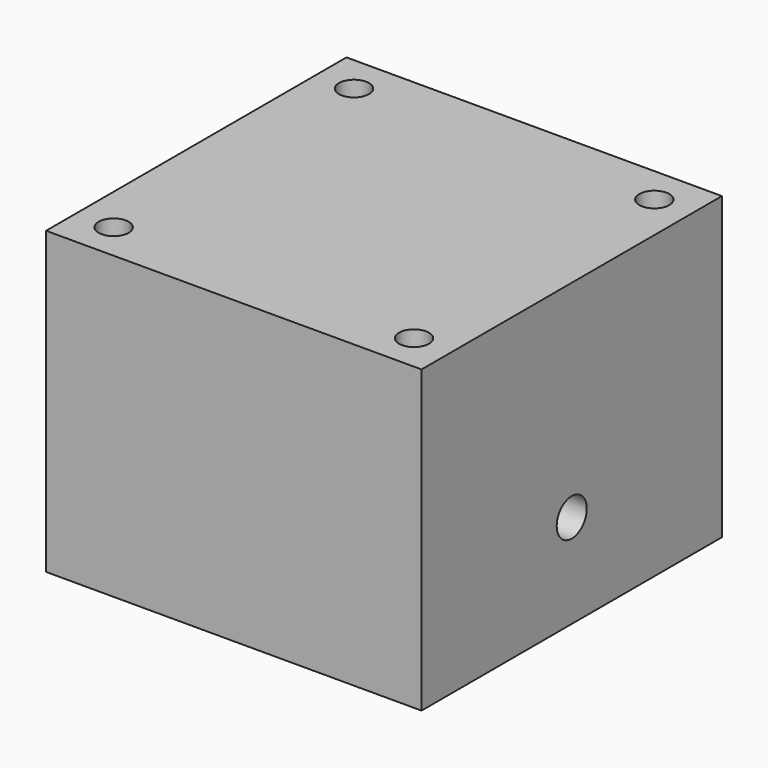
from build123d import *

# Parameters (mm, degrees)
F0_W     = 100
F0_H     = 100
F1_DEPTH = 50
F2_W     = 100
F2_H     = 100
F2_R     = 4
F3_DEPTH = 30
F4_DEPTH = 50.001
F5_R     = 5
F6_DEPTH = 100.001


with BuildPart() as f1:
    # F0 (on Top) → F1 (new body)
    with BuildSketch(Plane.XY):
        Rectangle(F0_W, F0_H)
    extrude(amount=F1_DEPTH)

    # F2 (on face) → F3 (join)
    with BuildSketch(Plane.XY.offset(50)):
        Rectangle(F2_W, F2_H)
        with Locations((-40, -40)):
            Circle(F2_R, mode=Mode.SUBTRACT)
        with Locations((40, -40)):
            Circle(F2_R, mode=Mode.SUBTRACT)
        with Locations((-40, 40)):
            Circle(F2_R, mode=Mode.SUBTRACT)
        with Locations((40, 40)):
            Circle(F2_R, mode=Mode.SUBTRACT)
    extrude(amount=F3_DEPTH)

    # F4 (cut, through all): faces of the model
    f4_faces = [f1.faces().sort_by_distance(p)[0] for p in [
        (-40, 40, 50),
        (40, 40, 50),
        (40, -40, 50),
        (-40, -40, 50),
    ]]
    extrude(f4_faces, amount=-F4_DEPTH, mode=Mode.SUBTRACT)

    # F5 (on face) → F6 (cut, through all)
    with BuildSketch(Plane(origin=(-50, 0, 0), x_dir=(0, -1, 0), z_dir=(-1, 0, 0))):
        with Locations((0, 25)):
            Circle(F5_R)
    extrude(amount=-F6_DEPTH, mode=Mode.SUBTRACT)


solid = f1.part
